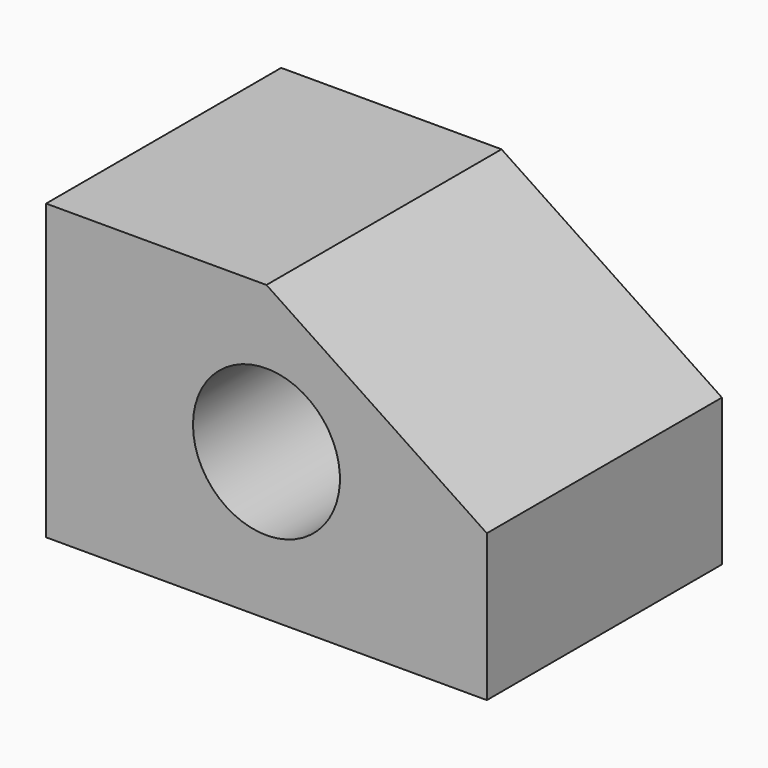
from build123d import *

# Parameters (mm, degrees)
F1_DEPTH = 50.8
F3_D     = 25.4


with BuildPart() as f1:
    # F0 (on Front) → F1 (new body)
    with BuildSketch(Plane.XZ):
        Polygon((0, 50.8), (0, 0), (76.2, 0), (76.2, 25.4), (38.1, 50.8), align=None)
    extrude(amount=F1_DEPTH)

    # F3 (through all)
    with Locations(Plane.XZ.offset(50.8)):
        with Locations((38.1, 25.4)):
            Hole(F3_D / 2)


solid = f1.part
